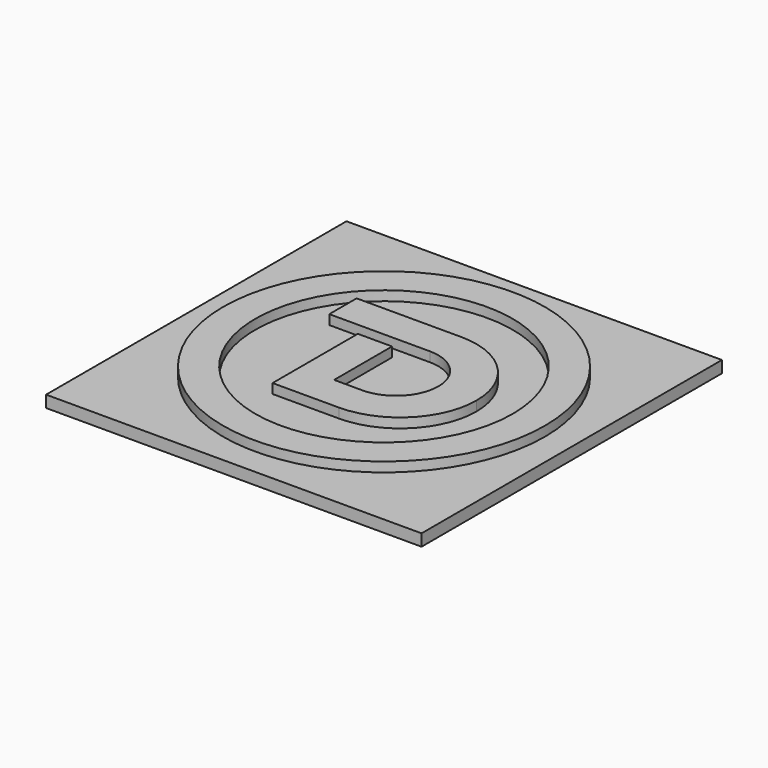
from build123d import *

# Parameters (mm, degrees)
F1_DEPTH = 5.08
F0_R     = 38.1
F0_R_2   = 30.4800761992
F2_W     = 88.9
F2_H     = 88.9
F3_DEPTH = 2.794


with BuildPart() as f1:
    # F0 (on Top) → F1 (new body)
    with BuildSketch(Plane.XY):
        Polygon((-13.0065079349, -18.0973190268), (-4.9103388966, -18.0973190268), (-4.9103388966, -10.0011499885), (-4.9103388966, 7.1436785632), (-13.0065079349, 7.1436785632), align=None)
        with BuildLine():
            Line((11.7582444176, 0), (20.806903931, 0))
            ThreePointArc((20.806903931, 0), (15.5063219093, 12.7967370052), (2.7095849042, 18.0973190268))
            Line((2.7095849042, 18.0973190268), (-22.0551674483, 18.0973190268))
            Line((-22.0551674483, 18.0973190268), (-22.0551674483, 10.0011499885))
            Line((-22.0551674483, 10.0011499885), (1.7570944291, 10.0011499885))
            ThreePointArc((1.7570944291, 10.0011499885), (8.8289754056, 7.0718809765), (11.7582444176, 0))
        make_face()
        with BuildLine():
            Line((-4.9103388966, -10.0011499885), (-4.9103388966, -18.0973190268))
            Line((-4.9103388966, -18.0973190268), (2.7095849042, -18.0973190268))
            ThreePointArc((2.7095849042, -18.0973190268), (15.5063219093, -12.7967370052), (20.806903931, 0))
            Line((20.806903931, 0), (11.7582444176, 0))
            ThreePointArc((11.7582444176, 0), (8.8289754056, -7.0718809765), (1.7570944291, -10.0011499885))
            Line((1.7570944291, -10.0011499885), (-4.9103388966, -10.0011499885))
        make_face()
    extrude(amount=F1_DEPTH)


with BuildPart() as f1b:
    # F0 (on Top) → F1, piece 2 (new body)
    with BuildSketch(Plane.XY):
        with Locations((-1.099996, 0)):
            Circle(F0_R)
        with Locations((-1.099996, 0)):
            Circle(F0_R_2, mode=Mode.SUBTRACT)
    extrude(amount=F1_DEPTH)


with BuildPart() as f3:
    # F2 (on Top) → F3 (new body)
    with BuildSketch(Plane.XY):
        with Locations((-1.099996, 0)):
            Rectangle(F2_W, F2_H)
    extrude(amount=F3_DEPTH)


solid = Compound([f1.part, f1b.part, f3.part])
